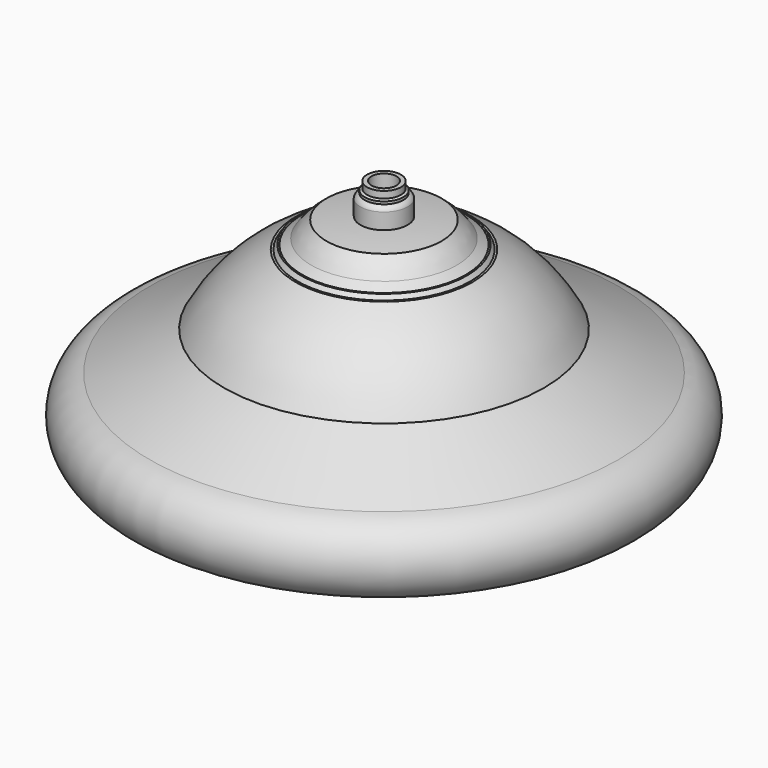
from build123d import *


with BuildPart() as f2:
    # F1 (on Front) → F2 (revolve)
    with BuildSketch(Plane.XZ):
        with BuildLine():
            Line((7.9056154937, 114.0608005226), (7.9056154937, 117.2112114727))
            Line((7.9056154937, 117.2112114727), (5.8238324709, 117.2112114727))
            Line((5.8238324709, 117.2112114727), (5.8238324709, 43.718546629))
            Line((5.8238324709, 43.718546629), (8.2504795864, 43.718546629))
            Line((8.2504795864, 43.718546629), (8.2504795864, 46.8858256936))
            Line((8.2504795864, 46.8858256936), (9.2506734654, 46.8858256936))
            Line((9.2506734654, 46.8858256936), (9.2506734654, 48.3652781695))
            ThreePointArc((9.2506734654, 48.3652781695), (10.8902051996, 49.5458033174), (11.7680507496, 51.3654437001))
            Line((11.7680507496, 51.3654437001), (11.6160204634, 60.5010874569))
            Line((11.6160204634, 60.5010874569), (9.2585422099, 62.6817531884))
            Line((9.2585422099, 62.6817531884), (9.2585422099, 66.1590360105))
            Line((9.2585422099, 66.1590360105), (11.6160204634, 68.2218298316))
            Line((11.6160204634, 68.2218298316), (11.6160204634, 70.638243109))
            ThreePointArc((11.6160204634, 70.638243109), (12.4102326542, 71.6230773393), (13.619877398, 71.9937942922))
            Line((13.619877398, 71.9937942922), (14.4449947402, 71.9937942922))
            Line((14.4449947402, 71.9937942922), (14.4449947402, 84.8420523107))
            ThreePointArc((14.4449947402, 84.8420523107), (13.3846456333, 85.4198993425), (12.9623254761, 86.5512229502))
            Line((12.9623254761, 86.5512229502), (12.9623254761, 92.8327925503))
            Line((12.9623254761, 92.8327925503), (8.8966917247, 92.8327925503))
            Line((8.8966917247, 92.8327925503), (8.8966917247, 98.2634462416))
            Line((8.8966917247, 98.2634462416), (9.9428221583, 98.9412181079))
            Line((9.9428221583, 98.9412181079), (11.0035203397, 99.6189974248))
            Line((11.0035203397, 99.6189974248), (11.0035203397, 104.1866131127))
            Line((11.0035203397, 104.1866131127), (11.0035203397, 110.1752929389))
            ThreePointArc((11.0035203397, 110.1752929389), (10.2432369143, 111.4509096243), (9.0082595125, 112.2755669057))
            Line((9.0082595125, 112.2755669057), (9.0082595125, 113.4832240641))
            Line((9.0082595125, 113.4832240641), (7.9056154937, 114.0608005226))
        make_face()
    revolve(axis=Axis((0, 0, 64.7168642), (0, 0, 1)))

    # F0 (on Front) → F3 (revolve)
    with BuildSketch(Plane.XZ):
        with BuildLine():
            Line((4.6968589988, 102.8585781329), (0, 103.8437362364))
            Line((0, 103.8437362364), (0, 98.6355793162))
            Line((0, 98.6355793162), (0, 97.6504212126))
            ThreePointArc((0, 97.6504212126), (11.2395927965, 97.2558202073), (22.4238390098, 96.0739603061))
            ThreePointArc((22.4238390098, 96.0739603061), (26.2715957936, 92.5627257936), (29.5169851646, 88.4882383534))
            Line((29.5169851646, 88.4882383534), (33.6107627305, 85.8498261778))
            Line((33.6107627305, 85.8498261778), (34.3596205916, 85.8498261778))
            Line((34.3596205916, 85.8498261778), (35.7876748905, 83.8818950341))
            Line((35.7876748905, 83.8818950341), (36.7629348181, 83.8818950341))
            ThreePointArc((36.7629348181, 83.8818950341), (55.9450792981, 70.1850206094), (70.1004506436, 51.3386814974))
            Line((70.1004506436, 51.3386814974), (104.8273907391, 33.2606784187))
            ThreePointArc((104.8273907391, 33.2606784187), (110.3615133271, 18.1910089649), (101.4630321296, 4.8291796498))
            Line((101.4630321296, 4.8291796498), (90.7086574482, 1.4872732241))
            Line((90.7086574482, 1.4872732241), (31.9481058598, -16.7724834563))
            Line((31.9481058598, -16.7724834563), (21.7118167186, -16.7724834563))
            Line((21.7118167186, -16.7724834563), (17.5949823675, -18.2044206838))
            Line((17.5949823675, -18.2044206838), (0, -18.2044206838))
            Line((0, -18.2044206838), (0, -23.1562637636))
            Line((0, -23.1562637636), (17.3372149233, -23.1562637636))
            Line((17.3372149233, -23.1562637636), (21.4540492743, -21.7243265361))
            Line((21.4540492743, -21.7243265361), (31.6903384155, -21.7243265361))
            Line((31.6903384155, -21.7243265361), (90.450890004, -3.4645698556))
            Line((90.450890004, -3.4645698556), (101.6, 0))
            Line((101.6, 0), (112.6469820738, 5.1302150823))
            ThreePointArc((112.6469820738, 5.1302150823), (122.8205396431, 23.0025985298), (109.2664822936, 38.469042629))
            Line((109.2664822936, 38.469042629), (74.5395421982, 56.5470457077))
            ThreePointArc((74.5395421982, 56.5470457077), (60.3841708526, 75.3933848197), (41.2020263726, 89.0902592444))
            Line((41.2020263726, 89.0902592444), (40.2267664451, 89.0902592444))
            Line((40.2267664451, 89.0902592444), (38.7987121462, 91.0581903881))
            Line((38.7987121462, 91.0581903881), (38.0498542851, 91.0581903881))
            Line((38.0498542851, 91.0581903881), (33.9560767191, 93.6966025637))
            ThreePointArc((33.9560767191, 93.6966025637), (30.7106873481, 97.7710900039), (26.8629305643, 101.2823245164))
            ThreePointArc((26.8629305643, 101.2823245164), (15.8072471525, 102.4550941295), (4.6968589988, 102.8585781329))
        make_face()
        with BuildLine():
            ThreePointArc((100.2203553684, 4.1914294146), (100.8479753185, 4.4980646929), (101.4630321296, 4.8291796498))
            Line((101.4630321296, 4.8291796498), (101.8577674443, 4.9518430797))
            Line((101.8577674443, 4.9518430797), (100.2203553684, 4.1914294146))
        make_face(mode=Mode.SUBTRACT)
        with BuildLine():
            Line((101.8577674443, 4.9518430797), (101.4630321296, 4.8291796498))
            ThreePointArc((101.4630321296, 4.8291796498), (100.8479753185, 4.4980646929), (100.2203553684, 4.1914294146))
            Line((100.2203553684, 4.1914294146), (101.8577674443, 4.9518430797))
        make_face()
    revolve(axis=Axis((0, 0, 64.7168642), (0, 0, 1)))


solid = f2.part
